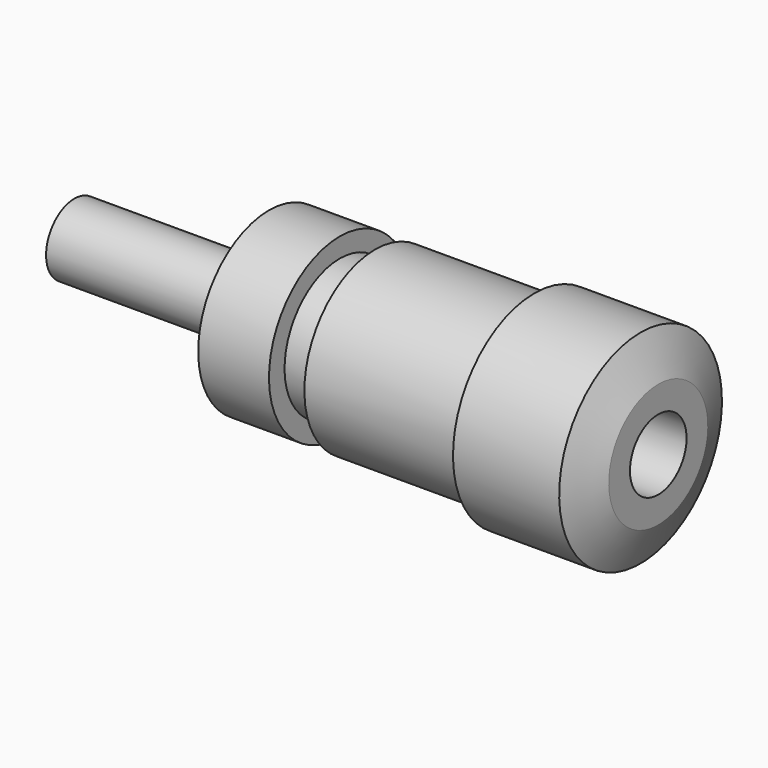
from build123d import *


with BuildPart() as f1:
    # F0 (on Front) → F1 (revolve)
    with BuildSketch(Plane.XZ):
        Polygon((-17, 2), (-17, 0), (1, 0), (1, 2), (16, 2), (16, 3.5), (15, 5.75), (9, 5.75), (9, 5), (0, 5), (0, 3.9), (-2, 3.9), (-2, 2), (-6, 2), align=None)
        Polygon((-6, 5), (-6, 2), (-2, 2), (-2, 3.9), (-2, 5), align=None)
    revolve(axis=Axis((-8, 0, 0), (-1, 0, 0)))


solid = f1.part
